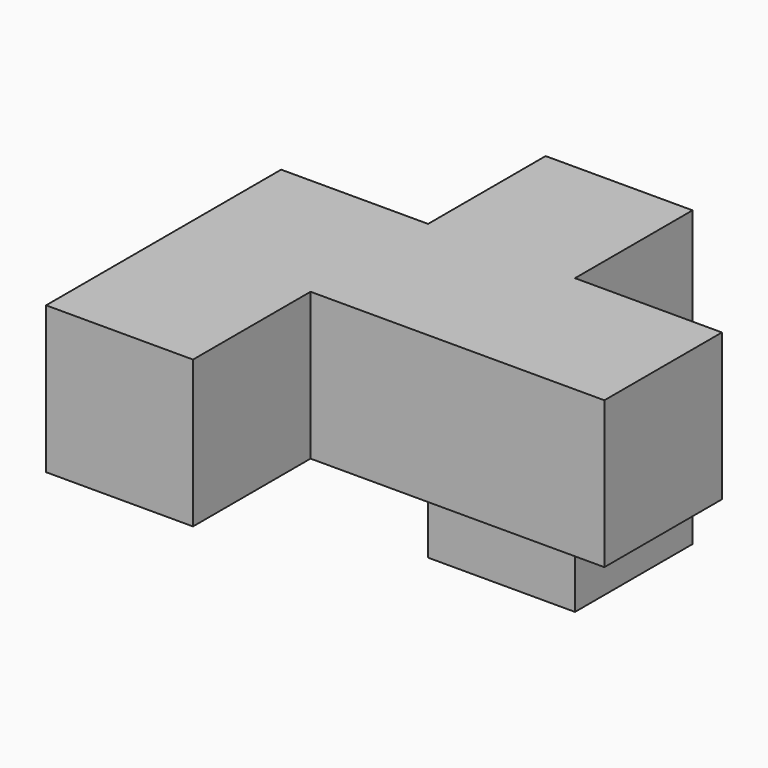
from build123d import *

# Parameters (mm, degrees)
F0_W     = 25.4
F0_H     = 25.4
F1_DEPTH = 50.8
F2_DEPTH = 25.4
F3_W     = 25.4
F3_H     = 25.4
F4_DEPTH = 25.4
F5_W     = 25.4
F5_H     = 25.4
F6_DEPTH = 25.4


with BuildPart() as f1:
    # F0 (on Front) → F1 (new body)
    with BuildSketch(Plane.XZ):
        with Locations((-31.858784, -1.663636)):
            Rectangle(F0_W, F0_H)
    extrude(amount=F1_DEPTH)

    # F0 (on Front) → F2 (join)
    with BuildSketch(Plane.XZ):
        with Locations((18.941216, -1.663636)):
            Rectangle(F0_W, F0_H)
        with Locations((-6.458784, -1.663636)):
            Rectangle(F0_W, F0_H)
    extrude(amount=F2_DEPTH)

    # F3 (on face) → F4 (join)
    with BuildSketch(Plane.XZ):
        with Locations((-6.458784, -1.663636)):
            Rectangle(F3_W, F3_H)
    extrude(amount=-F4_DEPTH)

    # F5 (on face) → F6 (join)
    with BuildSketch(Plane(origin=(0, 0, -14.363636), x_dir=(1, 0, 0), z_dir=(0, 0, -1))):
        with Locations((-6.458784, -12.7)):
            Rectangle(F5_W, F5_H)
    extrude(amount=F6_DEPTH)


solid = f1.part
